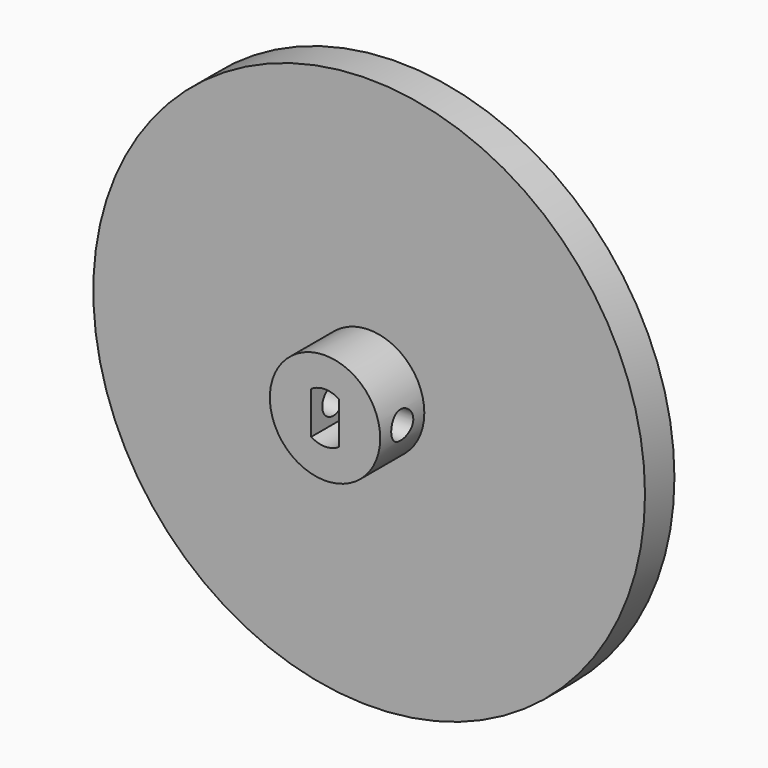
from build123d import *

# Parameters (mm, degrees)
F0_R     = 30
F0_R_2   = 6
F1_DEPTH = 4
F2_DEPTH = 6
F3_R     = 1.5
F4_DEPTH = 12.5
F5_W     = 3
F5_H     = 4.6
F6_DEPTH = 9.4


with BuildPart() as f1:
    # F0 (on Front) → F1 (new body)
    with BuildSketch(Plane.XZ):
        Circle(F0_R)
        Circle(F0_R_2, mode=Mode.SUBTRACT)
        Circle(F0_R_2)
    extrude(amount=-F1_DEPTH)

    # F0 (on Front) → F2 (join)
    with BuildSketch(Plane.XZ):
        Circle(F0_R_2)
    extrude(amount=F2_DEPTH)

    # F3 (on Right) → F4 (cut, symmetric)
    with BuildSketch(Plane.YZ):
        with Locations((-3, 0)):
            Circle(F3_R)
    extrude(amount=F4_DEPTH, both=True, mode=Mode.SUBTRACT)

    # F5 (on face) → F6 (cut)
    with BuildSketch(Plane.XZ.offset(6)):
        Rectangle(F5_W, F5_H)
        with BuildLine():
            Line((-1.5, 2.3), (1.5, 2.3))
            ThreePointArc((1.5, 2.3), (0, 2.7540939565), (-1.5, 2.3))
        make_face()
        with BuildLine():
            ThreePointArc((-1.5, -2.3), (0, -2.7459060435), (1.5, -2.3))
            Line((1.5, -2.3), (-1.5, -2.3))
        make_face()
    extrude(amount=-F6_DEPTH, mode=Mode.SUBTRACT)


solid = f1.part
